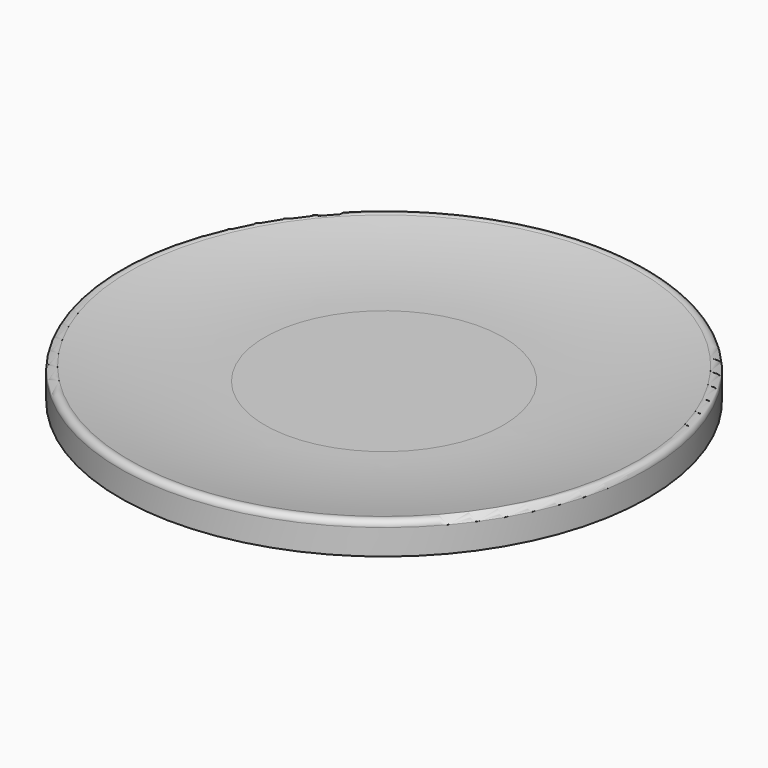
from build123d import *


with BuildPart() as f1:
    # F0 (on Front) → F1 (revolve)
    with BuildSketch(Plane.XZ):
        with BuildLine():
            Line((7, 3.5), (6, 2.5))
            Line((6, 2.5), (15.5, 2.5))
            Line((15.5, 2.5), (15.5, 4))
            ThreePointArc((15.5, 4), (15.325, 4.303109), (14.975, 4.303109))
            ThreePointArc((14.975, 4.303109), (11.007668, 3.701284), (7, 3.5))
        make_face()
    revolve(axis=Axis((0, 0, 1.25), (0, 0, 1)))


with BuildPart() as f2:
    # F0 (on Front) → F2 (revolve)
    with BuildSketch(Plane.XZ):
        Polygon((0, 3.5), (0, 2.5), (4, 2.5), (6, 2.5), (7, 3.5), align=None)
        Polygon((0, 2.5), (0, 0), (0, -3), (4, -3), (4, 0.5), (6, 2.5), (4, 2.5), align=None)
    revolve(axis=Axis((0, 0, 1.25), (0, 0, 1)))


solid = Compound([f1.part, f2.part])
